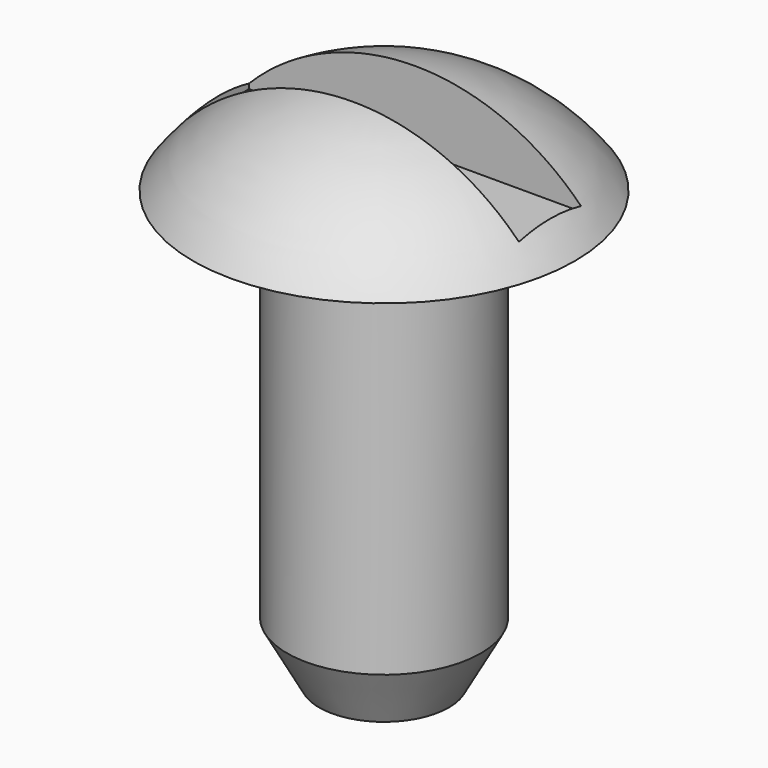
from build123d import *

# Parameters (mm, degrees)
F3_W     = 21.7424
F3_H     = 5.08
F4_DEPTH = 5.073509


with BuildPart() as f1:
    # F0 (on Front) → F1 (revolve)
    with BuildSketch(Plane.XZ):
        with BuildLine():
            Line((0, 30.980509), (0, 0))
            Line((0, 0), (6.35, 0))
            Line((6.35, 0), (6.35, 24.625533))
            Line((6.35, 24.625533), (12.509782, 24.625533))
            ThreePointArc((12.509782, 24.625533), (7.015703, 29.300681), (0, 30.980509))
        make_face()
        Polygon((6.35, 0), (0, 0), (0, -3.81), (4.250277, -3.81), align=None)
    revolve(axis=Axis((0, 0, 15.490254), (0, 0, 1)))

    # F3 (on offset) → F4 (cut, through all)
    with BuildSketch(Plane.XY.offset(25.908)):
        Rectangle(F3_W, F3_H)
    extrude(amount=F4_DEPTH, mode=Mode.SUBTRACT)


solid = f1.part
